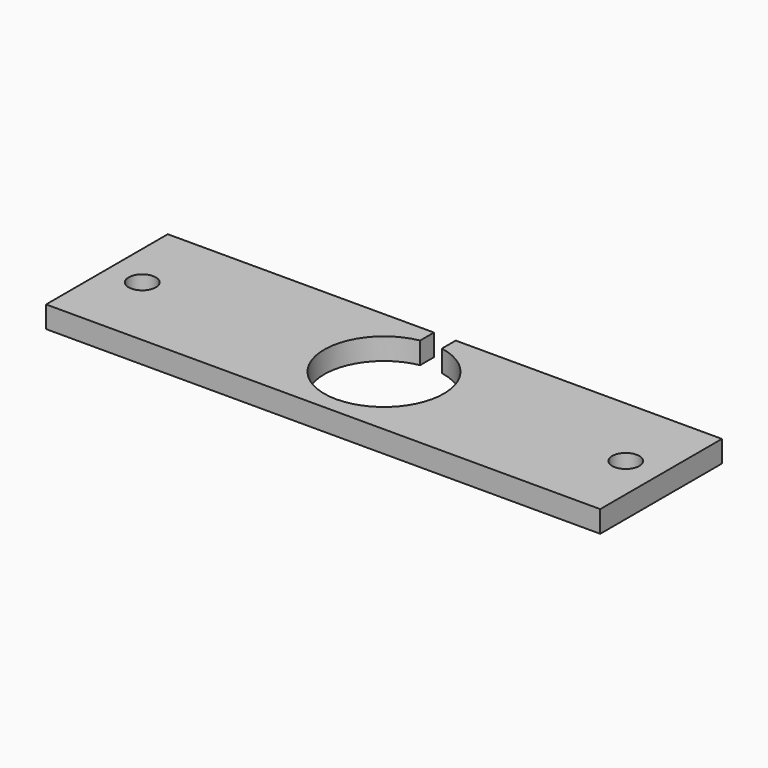
from build123d import *

# Parameters (mm, degrees)
SKETCH_W     = 51
SKETCH_H     = 14
PAD_DEPTH    = 2
SKETCH001_R  = 1.25
POCKET_DEPTH = 5


with BuildPart() as part:
    # Sketch → Pad (new body)
    with BuildSketch(Plane.XY):
        with Locations((25.5, 7)):
            Rectangle(SKETCH_W, SKETCH_H)
    extrude(amount=PAD_DEPTH)

    # Sketch001 (on Face6 of Pad) → Pocket (cut)
    with BuildSketch(Plane.XY.offset(2)):
        with Locations((3.25, 7)):
            Circle(SKETCH001_R)
        with Locations((47.75, 7)):
            Circle(SKETCH001_R)
        with BuildLine():
            Line((24.5, 12.408327), (24.5, 14))
            Line((24.5, 14), (26.5, 14))
            Line((26.5, 14), (26.5, 12.408327))
            ThreePointArc((24.5, 12.408327), (25.5, 1.5), (26.5, 12.408327))
        make_face()
    extrude(amount=-POCKET_DEPTH, mode=Mode.SUBTRACT)


solid = part.part
